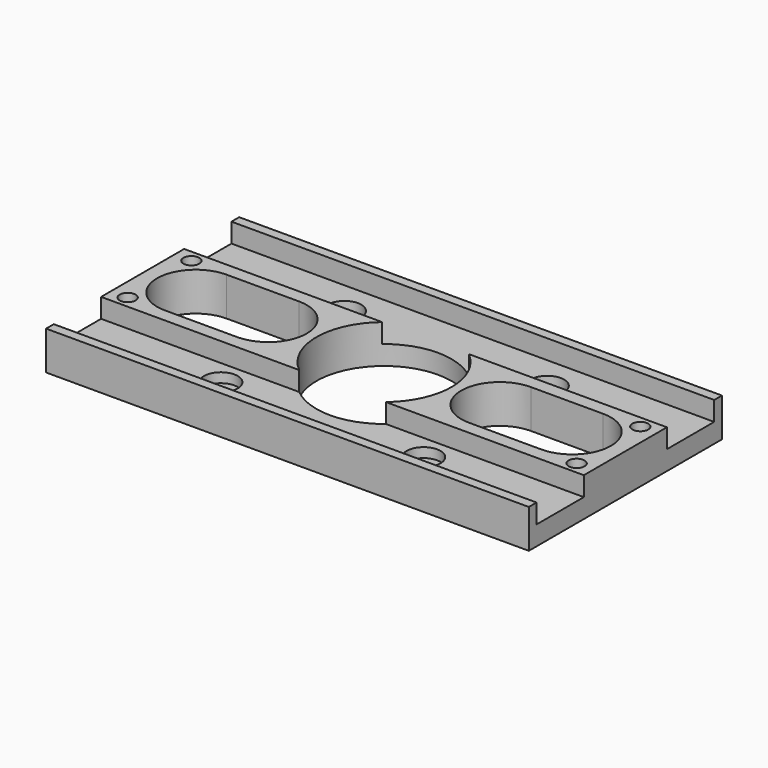
from build123d import *

# Parameters (mm, degrees)
SKETCH255_W     = 100
SKETCH255_H     = 50
SKETCH255_R     = 14
SKETCH255_R_2   = 1.75
SKETCH255_R_3   = 1.65
PAD122_DEPTH    = 8
SKETCH256_W     = 100
SKETCH256_H     = 12.25
POCKET108_DEPTH = 4
POCKET109_DEPTH = 8.001
SKETCH258_R     = 3.5
POCKET110_DEPTH = 2


with BuildPart() as part:
    # Sketch255 → Pad122 (new body)
    with BuildSketch(Plane.XY):
        with Locations((50, 25)):
            Rectangle(SKETCH255_W, SKETCH255_H)
        with Locations((50, 25)):
            Circle(SKETCH255_R, mode=Mode.SUBTRACT)
        with Locations((29, 41)):
            Circle(SKETCH255_R_2, mode=Mode.SUBTRACT)
        with Locations((71, 41)):
            Circle(SKETCH255_R_2, mode=Mode.SUBTRACT)
        with Locations((71, 9)):
            Circle(SKETCH255_R_2, mode=Mode.SUBTRACT)
        with Locations((29, 9)):
            Circle(SKETCH255_R_2, mode=Mode.SUBTRACT)
        with Locations((96.5, 33.25)):
            Circle(SKETCH255_R_3, mode=Mode.SUBTRACT)
        with Locations((3.5, 33.25)):
            Circle(SKETCH255_R_3, mode=Mode.SUBTRACT)
        with Locations((3.5, 16.75)):
            Circle(SKETCH255_R_3, mode=Mode.SUBTRACT)
        with Locations((96.5, 16.75)):
            Circle(SKETCH255_R_3, mode=Mode.SUBTRACT)
    extrude(amount=PAD122_DEPTH)

    # Sketch256 (on Face15 of Pad122) → Pocket108 (cut)
    with BuildSketch(Plane.XY.offset(8)):
        with Locations((50, 41.875)):
            Rectangle(SKETCH256_W, SKETCH256_H)
        with Locations((50, 8.125)):
            Rectangle(SKETCH256_W, SKETCH256_H)
    extrude(amount=-POCKET108_DEPTH, mode=Mode.SUBTRACT)

    # Sketch257 (on Face9 of Pocket108) → Pocket109 (cut, through all)
    with BuildSketch(Plane.XY.offset(8)):
        with BuildLine():
            ThreePointArc((11, 33), (3, 25), (11, 17))
            Line((11, 17), (26, 17))
            ThreePointArc((26, 17), (34, 25), (26, 33))
            Line((26, 33), (11, 33))
        make_face()
        with BuildLine():
            ThreePointArc((74, 33), (66, 25), (74, 17))
            Line((74, 17), (89, 17))
            ThreePointArc((89, 17), (97, 25), (89, 33))
            Line((89, 33), (74, 33))
        make_face()
    extrude(amount=-POCKET109_DEPTH, mode=Mode.SUBTRACT)

    # Sketch258 (on Face11 of Pocket109) → Pocket110 (cut)
    with BuildSketch(Plane.XY.offset(4)):
        with Locations((29, 41)):
            Circle(SKETCH258_R)
        with Locations((71, 41)):
            Circle(SKETCH258_R)
        with Locations((29, 9)):
            Circle(SKETCH258_R)
        with Locations((71, 9)):
            Circle(SKETCH258_R)
    extrude(amount=-POCKET110_DEPTH, mode=Mode.SUBTRACT)


with BuildPart() as part_1:
    # Body087 placement: moved
    add(part.part.moved(Location((-25, -5, 20))))


solid = part_1.part
